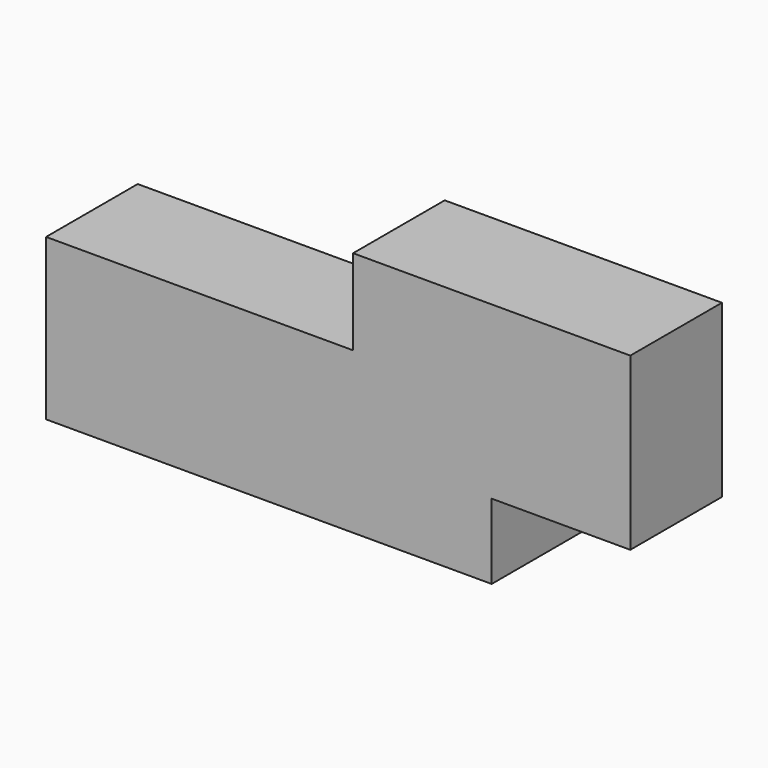
from build123d import *

# Parameters (mm, degrees)
F0_W     = 30.255837366
F0_H     = 18.6624806374
F1_DEPTH = 12.5


with BuildPart() as f1:
    # F0 (on Front) → F1 (new body, symmetric)
    with BuildSketch(Plane.XZ):
        with Locations((30.5386008695, 8.2001788542)):
            Rectangle(F0_W, F0_H)
        Polygon((15.4106821865, 17.5314191729), (45.6665195525, 17.5314191729), (45.6665195525, -1.1310614645), (75.9223569185, -1.1310614645), (75.9223569185, 36.1938998103), (15.4106821865, 36.1938998103), align=None)
        Polygon((15.4106821865, -1.1310614645), (15.4106821865, 17.5314191729), (-51.6045819968, 17.5314191729), (-51.6045819968, -17.5314191729), (45.6665195525, -17.5314191729), (45.6665195525, -1.1310614645), align=None)
    extrude(amount=F1_DEPTH, both=True)


solid = f1.part
